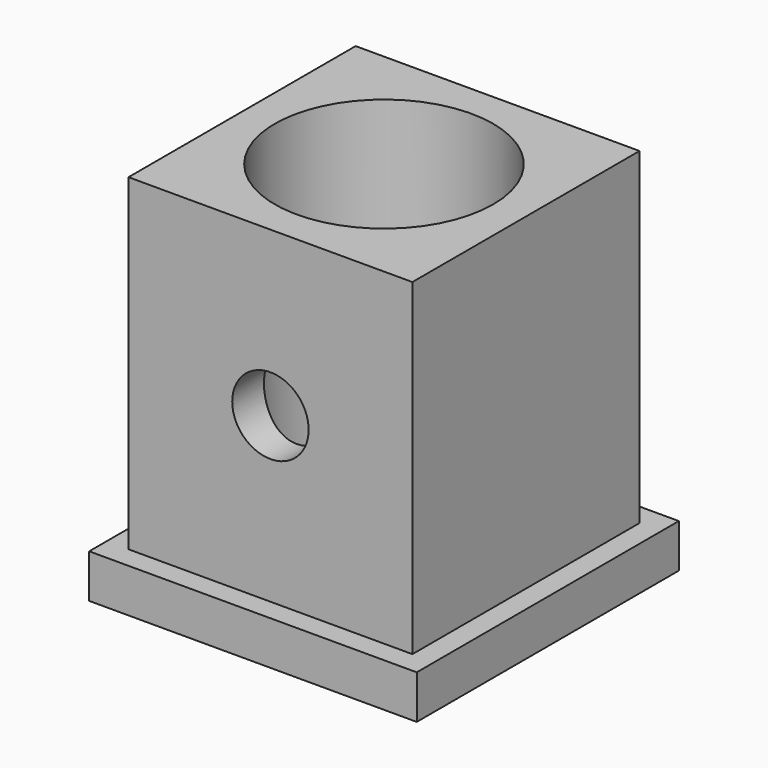
from build123d import *

# Parameters (mm, degrees)
F1_DEPTH       = 2
F3_DEPTH       = 15
F5_D           = 3.5
F5_CBORE_D     = 10
F5_CBORE_DEPTH = 14
F7_D           = 3.5


with BuildPart() as f1:
    # F0 (on Top) → F1 (new body)
    with BuildSketch(Plane.XY):
        Polygon((7.5, -7.5), (-7.5, 7.5), (-7.5, -7.5), align=None)
        Polygon((7.5, 7.5), (-7.5, 7.5), (7.5, -7.5), align=None)
    extrude(amount=F1_DEPTH)

    # F2 (on face) → F3 (join)
    with BuildSketch(Plane.XY.offset(2)):
        Polygon((6.5, -6.5), (-6.5, 6.5), (-6.5, -6.5), align=None)
        Polygon((6.5, 6.5), (-6.5, 6.5), (6.5, -6.5), align=None)
    extrude(amount=F3_DEPTH)

    # F5 (through all)
    with Locations(Plane.XY.offset(17)):
        with Locations((0, 0)):
            CounterBoreHole(F5_D / 2, F5_CBORE_D / 2, F5_CBORE_DEPTH)

    # F7 (through all)
    with Locations(Plane.XZ.offset(6.5)):
        with Locations((0, 9.5)):
            Hole(F7_D / 2)


solid = f1.part
